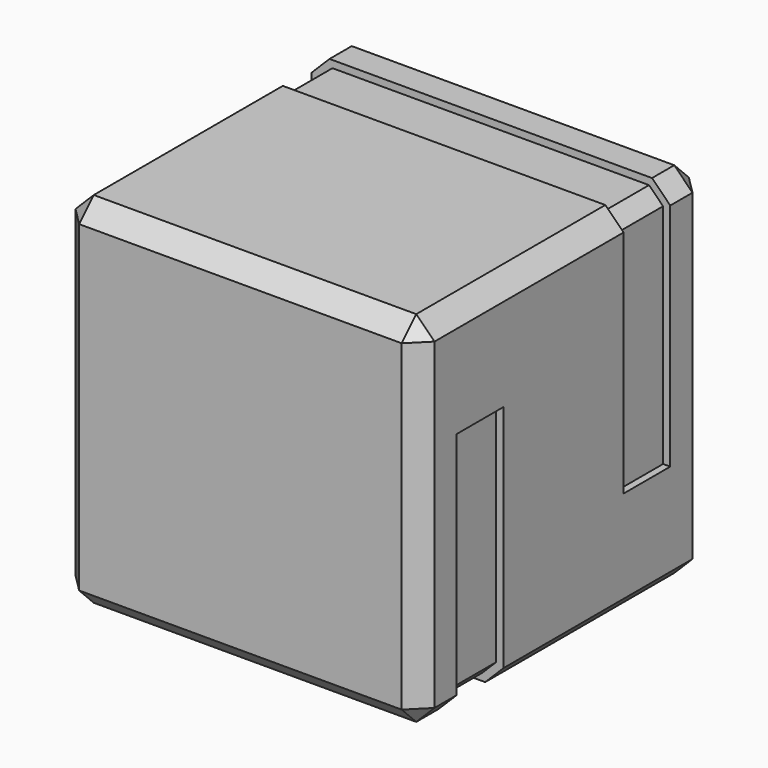
from build123d import *

# Parameters (mm, degrees)
F0_W      = 100
F0_H      = 100
F1_DEPTH  = 100
F2_SIZE   = 5.08
F3_W      = 89.84
F3_H      = 16.256
F4_DEPTH  = 2
F5_W      = 16.256
F5_H      = 7.1842048969
F6_DEPTH  = 2
F7_W      = 16.256
F7_H      = 14.2303462458
F8_DEPTH  = 2
F9_W      = 16.256
F9_H      = 7.1842048969
F10_DEPTH = 2
F11_W     = 16.256
F11_H     = 64.0321317446
F12_DEPTH = 2
F13_W     = 16.256
F13_H     = 64.03213
F14_DEPTH = 2
F15_W     = 16.256
F15_H     = 7.1842048969
F16_DEPTH = 2
F17_W     = 11.9421218839
F17_H     = 16.256
F18_DEPTH = 2


with BuildPart() as f1:
    # F0 (on Top) → F1 (new body)
    with BuildSketch(Plane.XY):
        with Locations((2.5266306475, -1.8473280194)):
            Rectangle(F0_W, F0_H)
    extrude(amount=F1_DEPTH)

    # F2
    f2_edges = [f1.edges().sort_by_distance(p)[0] for p in [
        (2.526631, -51.847328, 100),
        (-47.473369, -1.847328, 100),
        (-47.473369, -51.847328, 50),
        (52.526631, -51.847328, 50),
        (2.526631, -51.847328, 0),
        (52.526631, -1.847328, 0),
        (2.526631, 48.152672, 0),
        (52.526631, 48.152672, 50),
        (-47.473369, 48.152672, 50),
        (-47.473369, -1.847328, 0),
        (2.526631, 48.152672, 100),
        (52.526631, -1.847328, 100),
    ]]
    chamfer(f2_edges, length=F2_SIZE)

    # F3 (on face) → F4 (cut)
    with BuildSketch(Plane.XY.offset(100)):
        with Locations((2.5266306475, 27.1967347203)):
            Rectangle(F3_W, F3_H)
    extrude(amount=-F4_DEPTH, mode=Mode.SUBTRACT)

    # F5 (on face) → F6 (cut)
    with BuildSketch(Plane(origin=(-71.1966846763, 0, 71.1966846763), x_dir=(0, -1, 0), z_dir=(-0.7071067812, 0, 0.7071067812))):
        with Locations((-27.1967347203, 37.1419367237)):
            Rectangle(F5_W, F5_H)
    extrude(amount=-F6_DEPTH, mode=Mode.SUBTRACT)

    # F7 (on face) → F8 (cut)
    with BuildSketch(Plane(origin=(-47.4733693525, 0, 0), x_dir=(0, -1, 0), z_dir=(-1, 0, 0))):
        with Locations((-27.1967347203, 87.8048268771)):
            Rectangle(F7_W, F7_H)
    extrude(amount=-F8_DEPTH, mode=Mode.SUBTRACT)

    # F9 (on face) → F10 (cut)
    with BuildSketch(Plane(origin=(73.7233153237, 0, 73.7233153237), x_dir=(0, 1, 0), z_dir=(0.7071067812, 0, 0.7071067812))):
        with Locations((27.1967347203, 33.5687413949)):
            Rectangle(F9_W, F9_H)
    extrude(amount=-F10_DEPTH, mode=Mode.SUBTRACT)

    # F11 (on face) → F12 (cut)
    with BuildSketch(Plane.YZ.offset(52.5266306475)):
        with Locations((27.1967347203, 62.9039341277)):
            Rectangle(F11_W, F11_H)
    extrude(amount=-F12_DEPTH, mode=Mode.SUBTRACT)

    # F13 (on face) → F14 (cut)
    with BuildSketch(Plane.YZ.offset(52.5266306475)):
        with Locations((-30.8923280194, 37.096065)):
            Rectangle(F13_W, F13_H)
    extrude(amount=-F14_DEPTH, mode=Mode.SUBTRACT)

    # F15 (on face) → F16 (cut)
    with BuildSketch(Plane(origin=(23.7233153237, 0, -23.7233153237), x_dir=(0, 1, 0), z_dir=(0.7071067812, 0, -0.7071067812))):
        with Locations((-30.8923280194, 37.1419367237)):
            Rectangle(F15_W, F15_H)
    extrude(amount=-F16_DEPTH, mode=Mode.SUBTRACT)

    # F17 (on face) → F18 (cut)
    with BuildSketch(Plane(origin=(0, 0, 0), x_dir=(1, 0, 0), z_dir=(0, 0, -1))):
        with Locations((41.4755697055, 30.8923280194)):
            Rectangle(F17_W, F17_H)
    extrude(amount=-F18_DEPTH, mode=Mode.SUBTRACT)


solid = f1.part
